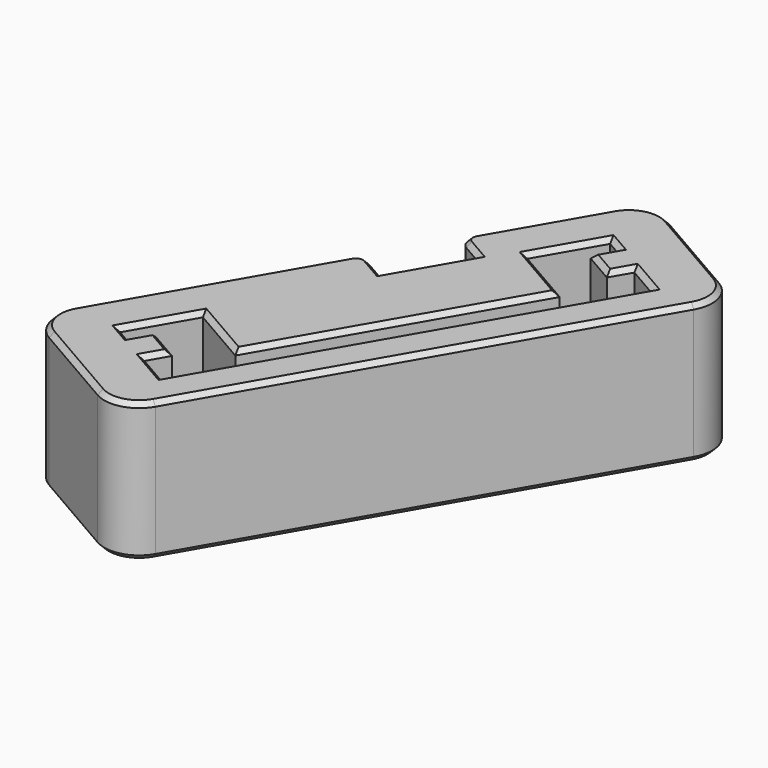
from build123d import *

# Parameters (mm, degrees)
SKETCH003_W             = 15
SKETCH003_H             = 45
PAD001_DEPTH            = 12
POCKET002_DEPTH         = 10
SKETCH005_R             = 1.9
POCKET003_DEPTH         = 10
SKETCH015_W             = 3
SKETCH015_H             = 7
POCKET006_DEPTH         = 12.001
FILLET004_R             = 1
FILLET005_R             = 3
CHAMFER009_SIZE         = 0.4
BODY001_PLACEMENT_ANGLE = 30


with BuildPart() as part:
    # Sketch003 → Pad001 (new body)
    with BuildSketch(Plane.XY):
        with Locations((7.5, 22.5)):
            Rectangle(SKETCH003_W, SKETCH003_H)
    extrude(amount=PAD001_DEPTH)

    # Sketch004 (on Face6 of Pad001) → Pocket002 (cut)
    with BuildSketch(Plane.XY.offset(12)):
        Polygon((4, 4.75), (5.5, 4.75), (5.5, 6.75), (8.5, 6.75), (8.5, 4.75), (11.75, 4.75), (11.75, 40.25), (8.5, 40.25), (8.5, 38.25), (5.5, 38.25), (5.5, 40.25), (4, 40.25), (4, 34.25), (10, 34.25), (10, 10.75), (4, 10.75), align=None)
    extrude(amount=-POCKET002_DEPTH, mode=Mode.SUBTRACT)

    # Sketch005 (on Face2 of Pocket002) → Pocket003 (cut)
    with BuildSketch(Plane(origin=(0, 0, 0), x_dir=(0, -1, 0), z_dir=(-1, 0, 0))):
        with Locations((-27.5, 7)):
            Circle(SKETCH005_R)
    extrude(amount=-POCKET003_DEPTH, mode=Mode.SUBTRACT)

    # Sketch015 (on Face5 of Pocket003) → Pocket006 (cut, through all)
    with BuildSketch(Plane.XY.offset(12)):
        with Locations((1.5, 27.5)):
            Rectangle(SKETCH015_W, SKETCH015_H)
    extrude(amount=-POCKET006_DEPTH, mode=Mode.SUBTRACT)

    # Fillet004
    fillet004_edges = [part.edges().sort_by_distance(p)[0] for p in [
        (0, 31, 6),
        (0, 24, 6),
    ]]
    fillet(fillet004_edges, radius=FILLET004_R)

    # Fillet005
    fillet005_edges = [part.edges().sort_by_distance(p)[0] for p in [
        (15, 0, 6),
        (0, 0, 6),
        (15, 45, 6),
        (0, 45, 6),
    ]]
    fillet(fillet005_edges, radius=FILLET005_R)

    # Chamfer009
    chamfer009_edges = [part.edges().sort_by_distance(p)[0] for p in [
        (0, 13, 12),
        (0.87868, 0.87868, 12),
        (0.292893, 23.707107, 12),
        (7.5, 0, 12),
        (2, 24, 12),
        (14.12132, 0.87868, 12),
        (3, 27.5, 12),
        (15, 22.5, 12),
        (2, 31, 12),
        (14.12132, 44.12132, 12),
        (0.292893, 31.292893, 12),
        (7.5, 45, 12),
        (0, 37, 12),
        (0.87868, 44.12132, 12),
        (4.75, 4.75, 12),
        (4, 7.75, 12),
        (5.5, 5.75, 12),
        (7, 10.75, 12),
        (7, 6.75, 12),
        (10, 22.5, 12),
        (8.5, 5.75, 12),
        (7, 34.25, 12),
        (10.125, 4.75, 12),
        (4, 37.25, 12),
        (11.75, 22.5, 12),
        (4.75, 40.25, 12),
        (10.125, 40.25, 12),
        (5.5, 39.25, 12),
        (8.5, 39.25, 12),
        (7, 38.25, 12),
        (0, 13, 0),
        (0.87868, 0.87868, 0),
        (0.292893, 23.707107, 0),
        (7.5, 0, 0),
        (2, 24, 0),
        (14.12132, 0.87868, 0),
        (3, 27.5, 0),
        (15, 22.5, 0),
        (2, 31, 0),
        (14.12132, 44.12132, 0),
        (0.292893, 31.292893, 0),
        (7.5, 45, 0),
        (0, 37, 0),
        (0.87868, 44.12132, 0),
        (3, 29.4, 7),
    ]]
    chamfer(chamfer009_edges, length=CHAMFER009_SIZE)


with BuildPart() as part_1:
    # Body001 placement: moved
    add(part.part.moved(Location((-70, 13, 0))).rotate(Axis((-70, 13, 0), (0, 0, -1)), BODY001_PLACEMENT_ANGLE))


solid = part_1.part
